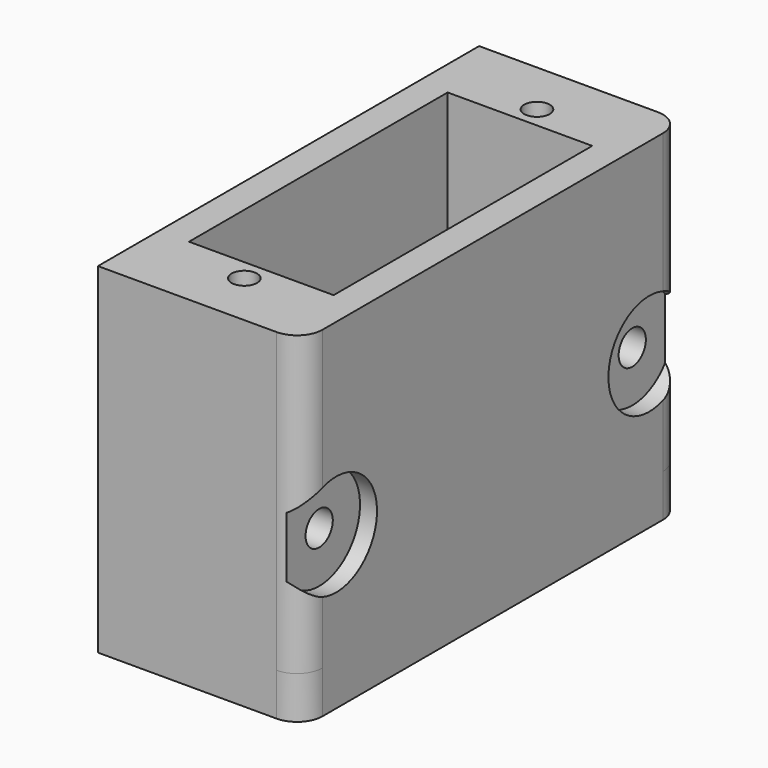
from build123d import *

# Parameters (mm, degrees)
F0_W      = 24
F0_H      = 56
F0_W_2    = 17
F0_H_2    = 38
F1_DEPTH  = 35
F2_R      = 1.5
F3_DEPTH  = 15
F4_R      = 3
F6_DEPTH  = 5
F7_R      = 5
F8_DEPTH  = 25
F9_R      = 2
F10_DEPTH = 25
F11_R     = 6
F12_DEPTH = 2
F13_R     = 7
F14_DEPTH = 4


with BuildPart() as f1:
    # F0 (on Top) → F1 (new body)
    with BuildSketch(Plane.XY):
        with Locations((12, 28)):
            Rectangle(F0_W, F0_H)
        with Locations((12, 28)):
            Rectangle(F0_W_2, F0_H_2, mode=Mode.SUBTRACT)
    extrude(amount=F1_DEPTH)

    # F2 (on face) → F3 (cut)
    with BuildSketch(Plane.XY.offset(35)):
        with Locations((12, 49.5)):
            Circle(F2_R)
        with Locations((12, 6.5)):
            Circle(F2_R)
    extrude(amount=-F3_DEPTH, mode=Mode.SUBTRACT)

    # F4
    f4_edges = [f1.edges().sort_by_distance(p)[0] for p in [
        (24, 0, 17.5),
        (24, 56, 17.5),
    ]]
    fillet(f4_edges, radius=F4_R)

    # F5 (on face) → F6 (join)
    with BuildSketch(Plane(origin=(0, 0, 0), x_dir=(1, 0, 0), z_dir=(0, 0, -1))):
        with BuildLine():
            Line((21, 0), (0, 0))
            Line((0, 0), (0, -56))
            Line((0, -56), (21, -56))
            ThreePointArc((21, -56), (23.12132, -55.12132), (24, -53))
            Line((24, -53), (24, -3))
            ThreePointArc((24, -3), (23.12132, -0.87868), (21, 0))
        make_face()
    extrude(amount=F6_DEPTH)

    # F7 (on face) → F8 (cut)
    with BuildSketch(Plane.XY):
        with Locations((12, 37)):
            Circle(F7_R)
    extrude(amount=-F8_DEPTH, mode=Mode.SUBTRACT)

    # F9 (on face) → F10 (cut)
    with BuildSketch(Plane(origin=(0, 0, 0), x_dir=(0, -1, 0), z_dir=(-1, 0, 0))):
        with Locations((-51, 13)):
            Circle(F9_R)
        with Locations((-5, 13)):
            Circle(F9_R)
    extrude(amount=-F10_DEPTH, mode=Mode.SUBTRACT)

    # F11 (on face) → F12 (cut)
    with BuildSketch(Plane.YZ.offset(24)):
        with Locations((5, 13)):
            Circle(F11_R)
        with Locations((51, 13)):
            Circle(F11_R)
    extrude(amount=-F12_DEPTH, mode=Mode.SUBTRACT)

    # F13 (on face) → F14 (cut)
    with BuildSketch(Plane(origin=(0, 0, 0), x_dir=(0, -1, 0), z_dir=(-1, 0, 0))):
        with Locations((-28.088422, 11)):
            Circle(F13_R)
    extrude(amount=-F14_DEPTH, mode=Mode.SUBTRACT)


solid = f1.part
